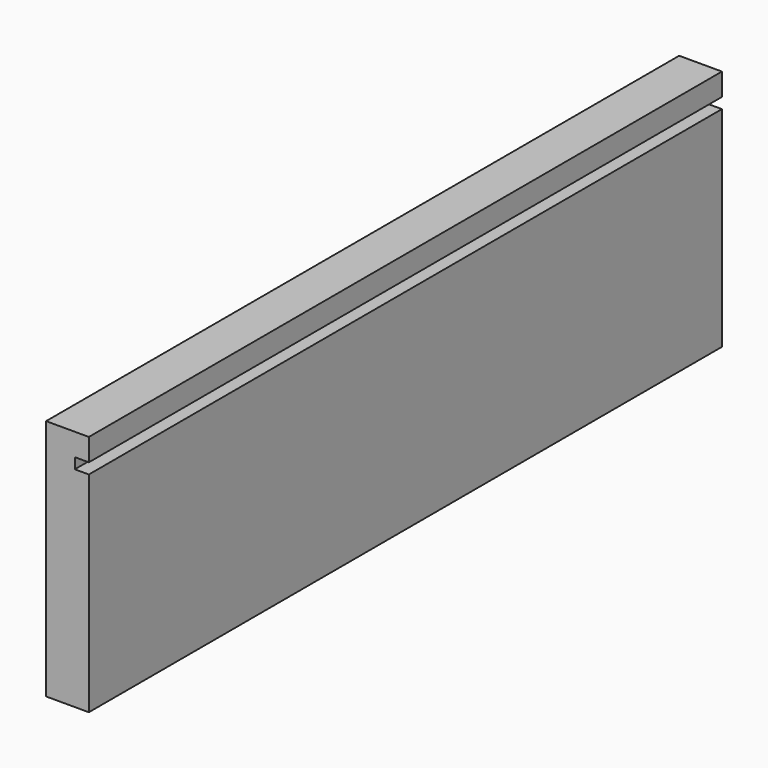
from build123d import *

# Parameters (mm, degrees)
F0_W     = 222
F0_H     = 68
F1_DEPTH = 12
F2_W     = 3.9458565631
F2_H     = 3
F3_DEPTH = 300


with BuildPart() as f1:
    # F0 (on Right) → F1 (new body)
    with BuildSketch(Plane.YZ):
        Rectangle(F0_W, F0_H)
    extrude(amount=F1_DEPTH)

    # F2 (on face) → F3 (cut)
    with BuildSketch(Plane(origin=(0, 111, 0), x_dir=(-1, 0, 0), z_dir=(0, 1, 0))):
        with Locations((-10.0270717184, 26.2251563966)):
            Rectangle(F2_W, F2_H)
    extrude(amount=-F3_DEPTH, mode=Mode.SUBTRACT)


solid = f1.part
